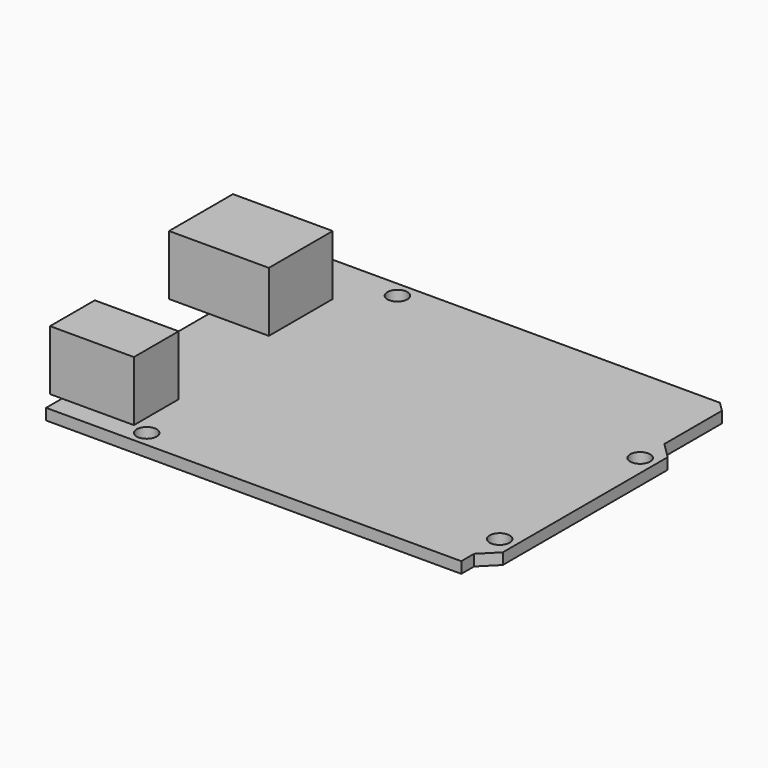
from build123d import *

# Parameters (mm, degrees)
F0_R     = 1.5875
F1_DEPTH = 1.778
F2_W     = 1.905
F2_H     = 8.89
F2_W_2   = 11.43
F3_DEPTH = 9.525


with BuildPart() as f1:
    # F0 (on Top) → F1 (new body)
    with BuildSketch(Plane.XY):
        Polygon((0, 0), (13.97, 0), (15.24, 0), (66.04, 0), (66.04, 2.54), (68.58, 5.08), (68.58, 37.846), (66.04, 40.386), (66.04, 51.816), (64.516, 53.34), (0, 53.34), (0, 32.385), align=None)
        with Locations((13.97, 2.54)):
            Circle(F0_R, mode=Mode.SUBTRACT)
        with Locations((66.04, 7.62)):
            Circle(F0_R, mode=Mode.SUBTRACT)
        with Locations((15.24, 50.8)):
            Circle(F0_R, mode=Mode.SUBTRACT)
        with Locations((66.04, 35.56)):
            Circle(F0_R, mode=Mode.SUBTRACT)
    extrude(amount=F1_DEPTH)

    # F2 (on face) → F3 (join)
    with BuildSketch(Plane.XY.offset(1.778)):
        with Locations((-0.9525, 7.62)):
            Rectangle(F2_W, F2_H)
        Polygon((-6.35, 32.385), (0, 32.385), (9.525, 32.385), (9.525, 45.085), (-6.35, 45.085), align=None)
        with Locations((5.715, 7.62)):
            Rectangle(F2_W_2, F2_H)
    extrude(amount=F3_DEPTH)


solid = f1.part
